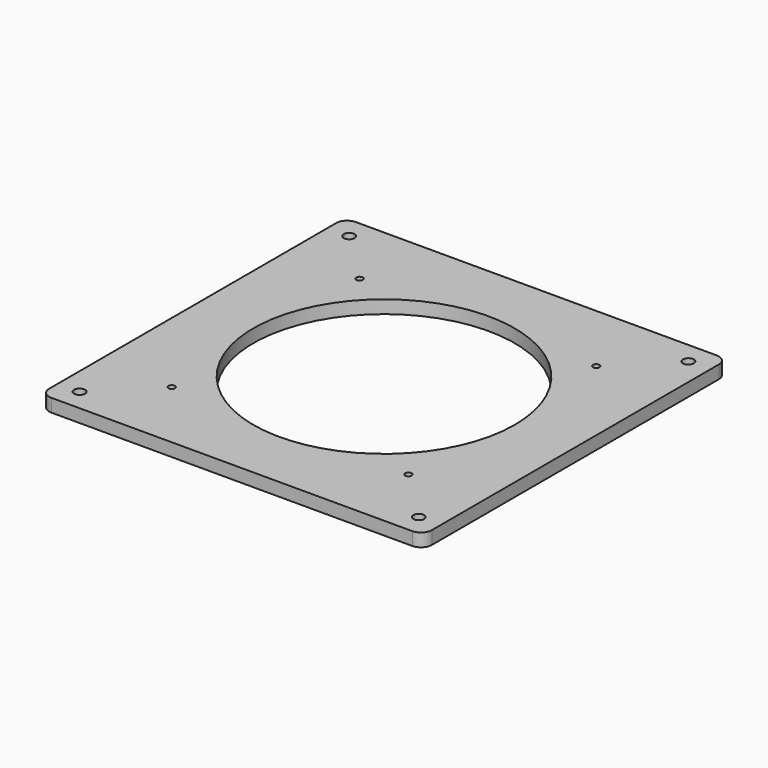
from build123d import *

# Parameters (mm, degrees)
F0_R     = 2.5
F0_R_2   = 1.5
F0_R_3   = 60
F1_DEPTH = 6


with BuildPart() as f1:
    # F0 (on Top) → F1 (new body)
    with BuildSketch(Plane.XY):
        with BuildLine():
            Line((82.845, 87.345), (-82.845, 87.345))
            ThreePointArc((-82.845, 87.345), (-86.380534, 85.880534), (-87.845, 82.345))
            Line((-87.845, 82.345), (-87.845, -82.345))
            ThreePointArc((-87.845, -82.345), (-86.380534, -85.880534), (-82.845, -87.345))
            Line((-82.845, -87.345), (82.845, -87.345))
            ThreePointArc((82.845, -87.345), (86.380534, -85.880534), (87.845, -82.345))
            Line((87.845, -82.345), (87.845, 82.345))
            ThreePointArc((87.845, 82.345), (86.380534, 85.880534), (82.845, 87.345))
        make_face()
        with Locations((-77.845, -77.345)):
            Circle(F0_R, mode=Mode.SUBTRACT)
        with Locations((-54.309282, -53.877193)):
            Circle(F0_R_2, mode=Mode.SUBTRACT)
        with Locations((77.845, -77.345)):
            Circle(F0_R, mode=Mode.SUBTRACT)
        with Locations((54.309282, -53.877193)):
            Circle(F0_R_2, mode=Mode.SUBTRACT)
        with Locations((-54.309282, 53.877193)):
            Circle(F0_R_2, mode=Mode.SUBTRACT)
        with Locations((-77.845, 77.345)):
            Circle(F0_R, mode=Mode.SUBTRACT)
        Circle(F0_R_3, mode=Mode.SUBTRACT)
        with Locations((54.309282, 53.877193)):
            Circle(F0_R_2, mode=Mode.SUBTRACT)
        with Locations((77.845, 77.345)):
            Circle(F0_R, mode=Mode.SUBTRACT)
    extrude(amount=F1_DEPTH)


solid = f1.part
